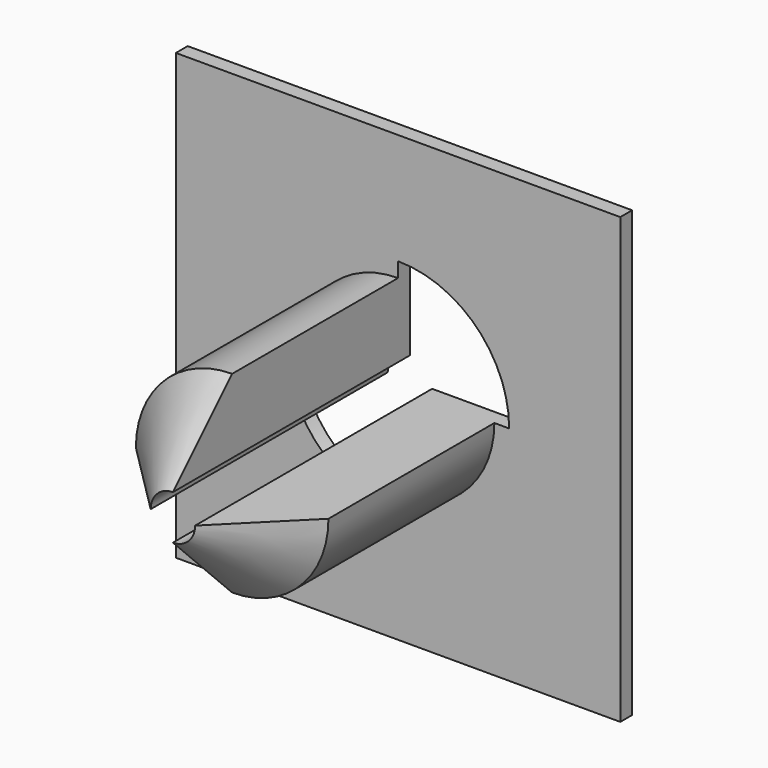
from build123d import *

# Parameters (mm, degrees)
F0_R     = 6.5
F1_DEPTH = 20
F2_SIZE  = 5
F3_W     = 30
F3_H     = 30
F4_DEPTH = 1
F6_DEPTH = 25


with BuildPart() as f1:
    # F0 (on Front) → F1 (new body)
    with BuildSketch(Plane.XZ):
        Circle(F0_R)
    extrude(amount=F1_DEPTH)

    # F2
    f2_edges = [f1.edges().sort_by_distance(p)[0] for p in [
        (-6.5, -20, 0),
    ]]
    chamfer(f2_edges, length=F2_SIZE)

    # F3 (on Front) → F4 (join)
    with BuildSketch(Plane.XZ):
        Rectangle(F3_W, F3_H)
    extrude(amount=F4_DEPTH)

    # F5 (on Front) → F6 (cut)
    with BuildSketch(Plane.XZ):
        with BuildLine():
            Line((-1.5, 0), (-7.5, 0))
            ThreePointArc((-7.5, 0), (-5.303301, -5.303301), (0, -7.5))
            Line((0, -7.5), (0, -1.5))
            ThreePointArc((0, -1.5), (1.06066, -1.06066), (1.5, 0))
            Line((1.5, 0), (7.5, 0))
            ThreePointArc((7.5, 0), (5.303301, 5.303301), (0, 7.5))
            Line((0, 7.5), (0, 1.5))
            ThreePointArc((0, 1.5), (-1.06066, 1.06066), (-1.5, 0))
        make_face()
    extrude(amount=F6_DEPTH, mode=Mode.SUBTRACT)


solid = f1.part
